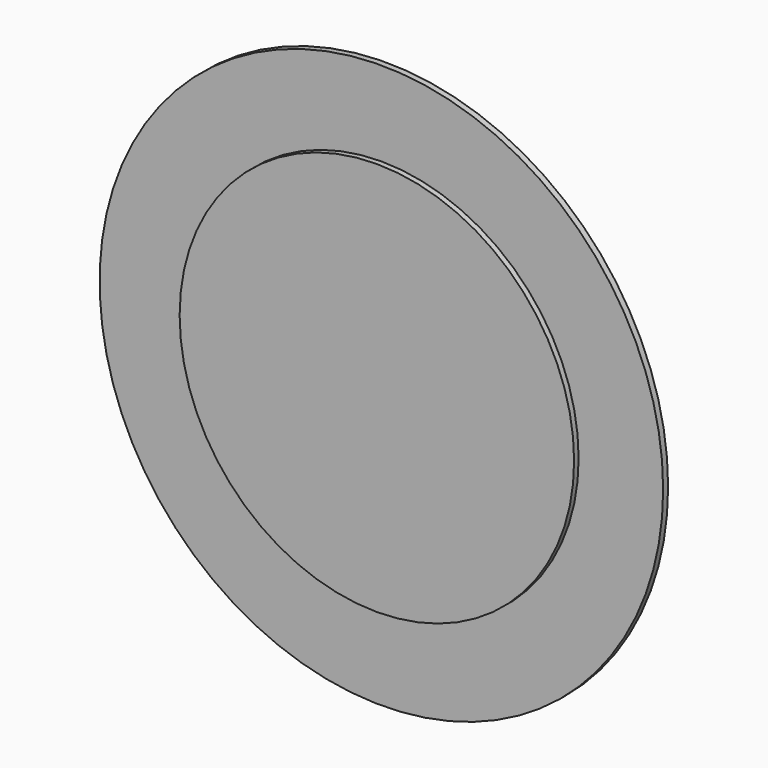
from build123d import *

# Parameters (mm, degrees)
F0_R     = 10
F0_R_2   = 7
F1_DEPTH = 0.22
F2_DEPTH = 0.2


with BuildPart() as f1:
    # F0 (on Front) → F1 (new body)
    with BuildSketch(Plane.XZ):
        Circle(F0_R)
        Circle(F0_R_2, mode=Mode.SUBTRACT)
        Circle(F0_R_2)
    extrude(amount=-F1_DEPTH)


with BuildPart() as f2:
    # F0 (on Front) → F2 (new body)
    with BuildSketch(Plane.XZ):
        Circle(F0_R_2)
    extrude(amount=F2_DEPTH)


solid = Compound([f1.part, f2.part])
